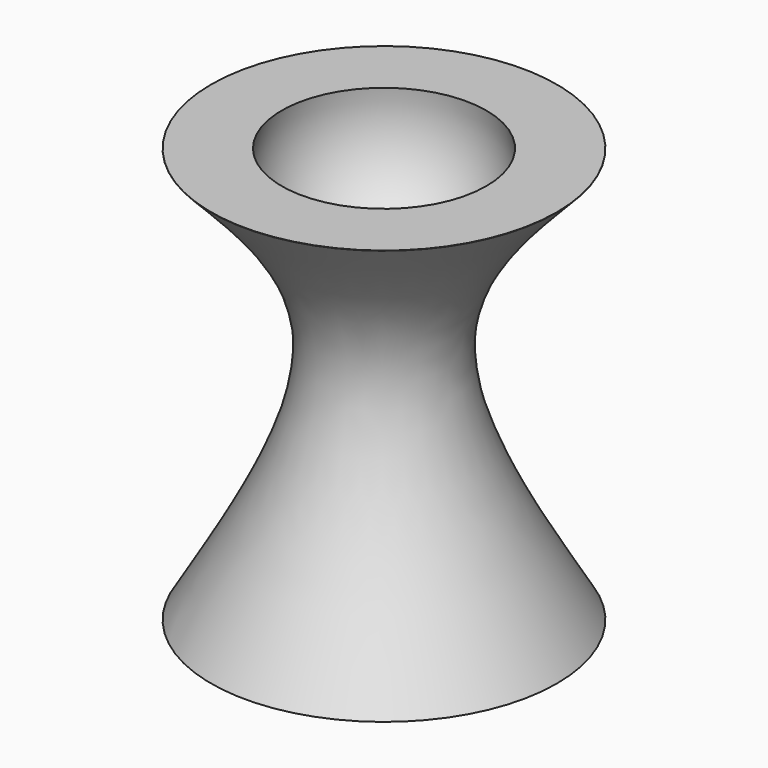
from build123d import *

# Parameters (mm, degrees)
F0_R     = 25.4
F1_DEPTH = 60.96


with BuildPart() as f1:
    # F0 (on Top) → F1 (new body)
    with BuildSketch(Plane.XY):
        Circle(F0_R)
    extrude(amount=F1_DEPTH)

    # F2 (on Front) → F3 (revolve, cut)
    with BuildSketch(Plane.XZ):
        with BuildLine():
            add(Edge.make_bspline(
                [(-25.4, 60.9230482654), (-18.379099245, 53.6623140881), (-2.9113509989, 37.6661887682), (-17.4568095535, 13.3040322149), (-25.4, 0)],
                knots=[0, 0, 0, 0, 0.4539058073, 1, 1, 1, 1], degree=3))
            Line((-25.4, 60.9230482654), (-25.4, 0))
        make_face()
    revolve(axis=Axis((0, 0, 25.251085345), (0, 0, -1)), mode=Mode.SUBTRACT)

    # F4 (on Front) → F5 (revolve, cut)
    with BuildSketch(Plane.XZ):
        with BuildLine():
            Line((0, 72.8829205036), (0, 41.9988818467))
            ThreePointArc((0, 41.9988818467), (15.4420193285, 57.4409011751), (0, 72.8829205036))
        make_face()
    revolve(axis=Axis((0, 0, 57.4409011751), (0, 0, -1)), mode=Mode.SUBTRACT)


solid = f1.part
